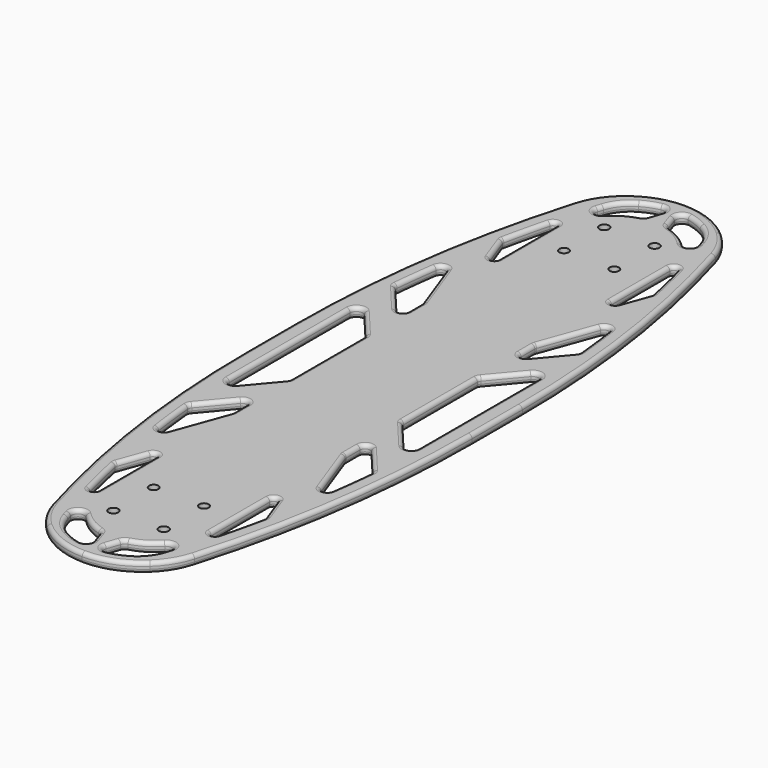
from build123d import *

# Parameters (mm, degrees)
F0_R     = 3.71442
F0_R_2   = 3.885678
F1_DEPTH = 8
F2_R     = 3


with BuildPart() as f1:
    # F0 (on Top) → F1 (new body)
    with BuildSketch(Plane.XY):
        with BuildLine():
            Line((-45, 0), (0, 0))
            Line((0, 0), (0, 300))
            ThreePointArc((0, 300), (-22.037662, 295.806285), (-40.994669, 283.811381))
            ThreePointArc((-40.994669, 283.811381), (-50.361391, 272.354261), (-56.380116, 258.834792))
            ThreePointArc((-56.380116, 258.834792), (-81.552036, 143.11965), (-90, 25))
            Line((-90, 25), (-90, 0))
            Line((-90, 0), (-75, 0))
            Line((-75, 0), (-75, 60))
            ThreePointArc((-75, 60), (-71.711543, 64.697938), (-66.171752, 63.216289))
            Line((-66.171752, 63.216289), (-45.937402, 39.131979))
            ThreePointArc((-45.937402, 39.131979), (-45.24165, 37.928182), (-45, 36.558947))
            Line((-45, 36.558947), (-45, 0))
        make_face()
        with BuildLine():
            ThreePointArc((-68.856129, 137.91607), (-65.314494, 141.340928), (-61.135774, 138.731114))
            Line((-61.135774, 138.731114), (-45.24123, 95.061213))
            ThreePointArc((-45.24123, 95.061213), (-45.060769, 94.387725), (-45, 93.693132))
            Line((-45, 93.693132), (-45, 80.087369))
            ThreePointArc((-45, 80.087369), (-47.630765, 76.329019), (-52.062598, 77.514338))
            Line((-52.062598, 77.514338), (-71.93832, 101.171784))
            ThreePointArc((-71.93832, 101.171784), (-72.696061, 102.559486), (-72.856901, 104.132387))
            ThreePointArc((-72.856901, 104.132387), (-71.032442, 121.045062), (-68.856129, 137.91607))
        make_face(mode=Mode.SUBTRACT)
        with BuildLine():
            ThreePointArc((-59.192981, 193.192912), (-55.246583, 210.960071), (-50.905249, 228.634877))
            ThreePointArc((-50.905249, 228.634877), (-47.623003, 230.863079), (-45, 227.886861))
            Line((-45, 227.886861), (-45, 169.888373))
            ThreePointArc((-45, 169.888373), (-47.479055, 166.93395), (-50.819078, 168.862313))
            Line((-50.819078, 168.862313), (-59.076366, 191.549025))
            ThreePointArc((-59.076366, 191.549025), (-59.249768, 192.362804), (-59.192981, 193.192912))
        make_face(mode=Mode.SUBTRACT)
        with Locations((-20, 203.932408)):
            Circle(F0_R, mode=Mode.SUBTRACT)
        with Locations((-20, 243.932408)):
            Circle(F0_R_2, mode=Mode.SUBTRACT)
        with BuildLine():
            ThreePointArc((-39.790529, 261.963563), (-39.131346, 264.122031), (-38.466188, 266.278664))
            ThreePointArc((-38.466188, 266.278664), (-33.108657, 276.308677), (-24.412368, 283.635264))
            ThreePointArc((-24.412368, 283.635264), (-17.808695, 286.720984), (-10.826551, 288.813787))
            ThreePointArc((-10.826551, 288.813787), (-6.030736, 287.280907), (-5, 282.352708))
            Line((-5, 282.352708), (-8.329965, 272.352708))
            ThreePointArc((-8.329965, 272.352708), (-9.617854, 270.319097), (-11.70674, 269.122941))
            ThreePointArc((-11.70674, 269.122941), (-22.34944, 264.458386), (-31.345938, 257.103921))
            ThreePointArc((-31.345938, 257.103921), (-37.500438, 256.176156), (-39.790529, 261.963563))
        make_face(mode=Mode.SUBTRACT)
    extrude(amount=F1_DEPTH)

    # F2
    f2_edges = [f1.edges().sort_by_distance(p)[0] for p in [
        (-68.856129, 137.91607, 4),
        (-61.135774, 138.731114, 4),
        (-65.314494, 141.340928, 0),
        (-65.314494, 141.340928, 8),
        (-50.905249, 228.634877, 4),
        (-45, 227.886861, 4),
        (-47.623003, 230.863079, 0),
        (-47.623003, 230.863079, 8),
        (-75, 60, 4),
        (-66.171752, 63.216289, 4),
        (-71.711543, 64.697938, 0),
        (-71.711543, 64.697938, 8),
        (-56.380116, 258.834792, 4),
        (-90, 25, 4),
        (-81.552036, 143.11965, 0),
        (-81.552036, 143.11965, 8),
        (-31.345938, 257.103921, 4),
        (-39.790529, 261.963563, 4),
        (-37.500438, 256.176156, 0),
        (-37.500438, 256.176156, 8),
    ]]
    fillet(f2_edges, radius=F2_R)

    # F3: F1 across face


with BuildPart() as f1_1:
    add(f1.part)
    add(f1.part.mirror(Plane(origin=(0, 149.759264, 4), x_dir=(0, 1, 0), z_dir=(1, 0, 0))))

    # F4: F1 across face


with BuildPart() as f1_2:
    add(f1_1.part)
    add(f1_1.part.mirror(Plane(origin=(0, 0, 4), x_dir=(1, 0, 0), z_dir=(0, -1, 0))))


solid = f1_2.part
